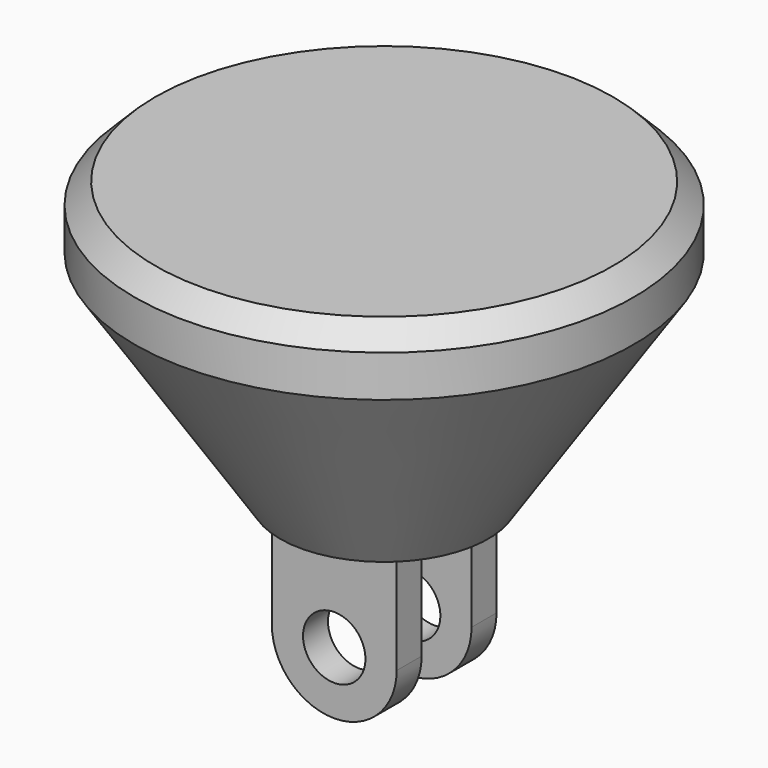
from build123d import *

# Parameters (mm, degrees)
F2_DEPTH = 6
F3_DEPTH = 3
F4_SIZE  = 2
F6_D     = 6


with BuildPart() as f1:
    # F0 (on Front) → F1 (revolve)
    with BuildSketch(Plane.XZ):
        Polygon((-6, 0), (0, 0), (0, 27), (-24, 27), (-24, 21), (-10, 0), align=None)
    revolve(axis=Axis((0, 0, 13.5), (0, 0, 1)))

    # F0 (on Front) → F2 (join, symmetric)
    with BuildSketch(Plane.XZ):
        with BuildLine():
            Line((6, 0), (0, 0))
            Line((0, 0), (-6, 0))
            Line((-6, 0), (-6, -10))
            ThreePointArc((-6, -10), (0, -16), (6, -10))
            Line((6, -10), (6, 0))
        make_face()
    extrude(amount=F2_DEPTH, both=True)

    # F0 (on Front) → F3 (cut, symmetric)
    with BuildSketch(Plane.XZ):
        with BuildLine():
            Line((6, 0), (0, 0))
            Line((0, 0), (-6, 0))
            Line((-6, 0), (-6, -10))
            ThreePointArc((-6, -10), (0, -16), (6, -10))
            Line((6, -10), (6, 0))
        make_face()
    extrude(amount=F3_DEPTH, both=True, mode=Mode.SUBTRACT)

    # F4
    f4_edges = [f1.edges().sort_by_distance(p)[0] for p in [
        (24, 0, 27),
    ]]
    chamfer(f4_edges, length=F4_SIZE)

    # F6 (through all)
    with Locations(Plane.XZ.offset(6)):
        with Locations((0, -10)):
            Hole(F6_D / 2)


solid = f1.part
